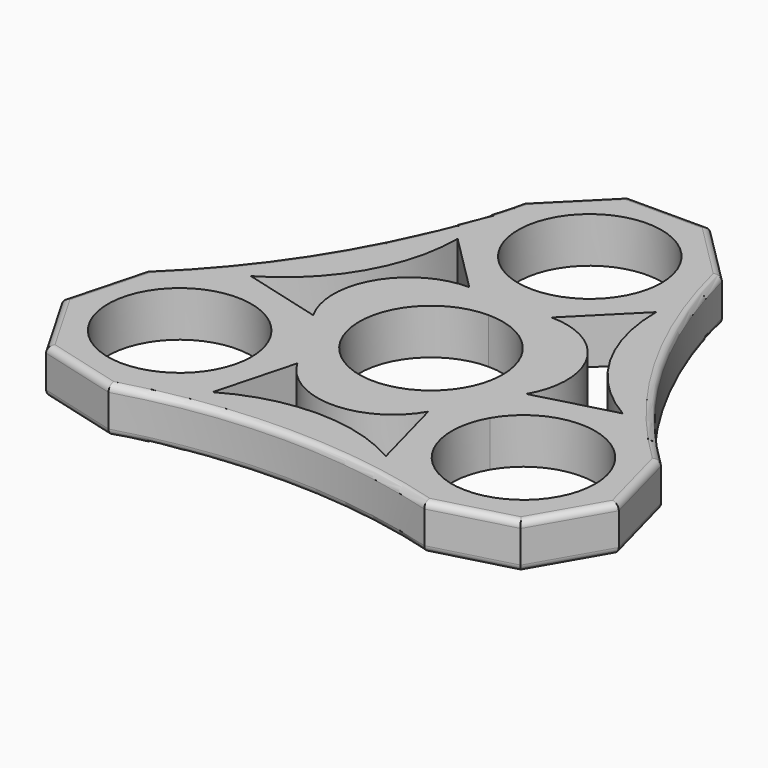
from build123d import *

# Parameters (mm, degrees)
F1_DEPTH = 6.985
F2_R     = 1.016


with BuildPart() as f1:
    # F0 (on Top) → F1 (new body)
    with BuildSketch(Plane.XY):
        with BuildLine():
            ThreePointArc((-28.549569621, 1.114534499), (-18.8062884316, 10.8578156884), (-15.24, 24.1673853094))
            Line((-15.24, 24.1673853094), (-15.24, 36.7926146906))
            ThreePointArc((-15.24, 36.7926146906), (-24.3357044661, 14.0502255244), (-39.4833389937, -5.1980801916))
            Line((-39.4833389937, -5.1980801916), (-28.549569621, 1.114534499))
        make_face()
        with BuildLine():
            Line((15.24, 36.7926146906), (15.24, 24.1673853094))
            ThreePointArc((15.24, 24.1673853094), (18.8062884316, 10.8578156884), (28.549569621, 1.114534499))
            Line((28.549569621, 1.114534499), (39.4833389937, -5.1980801916))
            ThreePointArc((39.4833389937, -5.1980801916), (24.3357044661, 14.0502255244), (15.24, 36.7926146906))
        make_face()
        with BuildLine():
            Line((24.2433389937, -31.594534499), (13.309569621, -25.2819198084))
            ThreePointArc((13.309569621, -25.2819198084), (0, -21.7156313768), (-13.309569621, -25.2819198084))
            Line((-13.309569621, -25.2819198084), (-24.2433389937, -31.594534499))
            ThreePointArc((-24.2433389937, -31.594534499), (0, -28.1004510488), (24.2433389937, -31.594534499))
        make_face()
        Polygon((-6.3126146906, 15.24), (0, 15.24), (6.3126146906, 15.24), (15.24, 24.1673853094), (15.24, 36.7926146906), (6.3126146906, 45.72), (-6.3126146906, 45.72), (-15.24, 36.7926146906), (-15.24, 24.1673853094), align=None)
        with BuildLine():
            ThreePointArc((11.0109, 30.48), (7.785882057, 22.694117943), (0, 19.4691))
            ThreePointArc((0, 19.4691), (-7.785882057, 38.265882057), (11.0109, 30.48))
        make_face(mode=Mode.SUBTRACT)
        Polygon((-10.0419198084, -13.0868846863), (-13.1982271537, -7.62), (-16.354534499, -2.1531153137), (-28.549569621, 1.114534499), (-39.4833389937, -5.1980801916), (-42.7509888063, -17.3931153137), (-36.4383741157, -28.3268846863), (-24.2433389937, -31.594534499), (-13.309569621, -25.2819198084), align=None)
        with BuildLine():
            ThreePointArc((-15.3855543073, -15.24), (-37.032166988, -18.0898306237), (-16.8607351888, -9.73455))
            ThreePointArc((-16.8607351888, -9.73455), (-15.7607416267, -12.3901693763), (-15.3855543073, -15.24))
        make_face(mode=Mode.SUBTRACT)
        Polygon((16.354534499, -2.1531153137), (13.1982271537, -7.62), (10.0419198084, -13.0868846863), (13.309569621, -25.2819198084), (24.2433389937, -31.594534499), (36.4383741157, -28.3268846863), (42.7509888063, -17.3931153137), (39.4833389937, -5.1980801916), (28.549569621, 1.114534499), align=None)
        with BuildLine():
            ThreePointArc((37.4073543073, -15.24), (23.5466236836, -25.8757126807), (16.8607351888, -9.73455))
            ThreePointArc((16.8607351888, -9.73455), (29.2462849311, -4.6042873193), (37.4073543073, -15.24))
        make_face(mode=Mode.SUBTRACT)
        with BuildLine():
            ThreePointArc((-9.5357191185, -5.50545), (-9.5357191185, 5.50545), (0, 11.0109))
            Line((0, 11.0109), (0, 15.24))
            Line((0, 15.24), (-6.3126146906, 15.24))
            ThreePointArc((-6.3126146906, 15.24), (-16.354534499, 9.4422948954), (-16.354534499, -2.1531153137))
            Line((-16.354534499, -2.1531153137), (-13.1982271537, -7.62))
            Line((-13.1982271537, -7.62), (-9.5357191185, -5.50545))
        make_face()
        with BuildLine():
            ThreePointArc((0, 11.0109), (7.785882057, 7.785882057), (11.0109, 0))
            ThreePointArc((11.0109, 0), (10.6357126807, -2.8498306237), (9.5357191185, -5.50545))
            Line((9.5357191185, -5.50545), (13.1982271537, -7.62))
            Line((13.1982271537, -7.62), (16.354534499, -2.1531153137))
            ThreePointArc((16.354534499, -2.1531153137), (16.354534499, 9.4422948954), (6.3126146906, 15.24))
            Line((6.3126146906, 15.24), (0, 15.24))
            Line((0, 15.24), (0, 11.0109))
        make_face()
        with BuildLine():
            Line((13.1982271537, -7.62), (9.5357191185, -5.50545))
            ThreePointArc((9.5357191185, -5.50545), (0, -11.0109), (-9.5357191185, -5.50545))
            Line((-9.5357191185, -5.50545), (-13.1982271537, -7.62))
            Line((-13.1982271537, -7.62), (-10.0419198084, -13.0868846863))
            ThreePointArc((-10.0419198084, -13.0868846863), (0, -18.8845897909), (10.0419198084, -13.0868846863))
            Line((10.0419198084, -13.0868846863), (13.1982271537, -7.62))
        make_face()
    extrude(amount=F1_DEPTH)

    # F2#2 (call 1 of 2: OpenCascade refuses the feature's edges together)
    f2_2_edges = [f1.edges().sort_by_distance(p)[0] for p in [
        (0, -28.100451, 0),
        (-24.335704, 14.050226, 0),
        (24.335704, 14.050226, 0),
        (10.776307, 41.256307, 0),
        (0, 45.72, 0),
        (-10.776307, 41.256307, 0),
        (-30.340857, -29.96071, 0),
        (-39.594681, -22.86, 0),
        (-41.117164, -11.295598, 0),
        (30.340857, -29.96071, 0),
        (39.594681, -22.86, 0),
        (41.117164, -11.295598, 0),
    ]]
    fillet(f2_2_edges, radius=F2_R)

    # F2 (call 2 of 2)
    f2_edges = [f1.edges().sort_by_distance(p)[0] for p in [
        (0, -28.100451, 6.985),
        (-24.335704, 14.050226, 6.985),
        (24.335704, 14.050226, 6.985),
        (-10.776307, 41.256307, 6.985),
        (0, 45.72, 6.985),
        (10.776307, 41.256307, 6.985),
        (-39.594681, -22.86, 6.985),
        (-30.340857, -29.96071, 6.985),
        (-41.117164, -11.295598, 6.985),
        (30.340857, -29.96071, 6.985),
        (39.594681, -22.86, 6.985),
        (41.117164, -11.295598, 6.985),
    ]]
    fillet(f2_edges, radius=F2_R)


solid = f1.part
